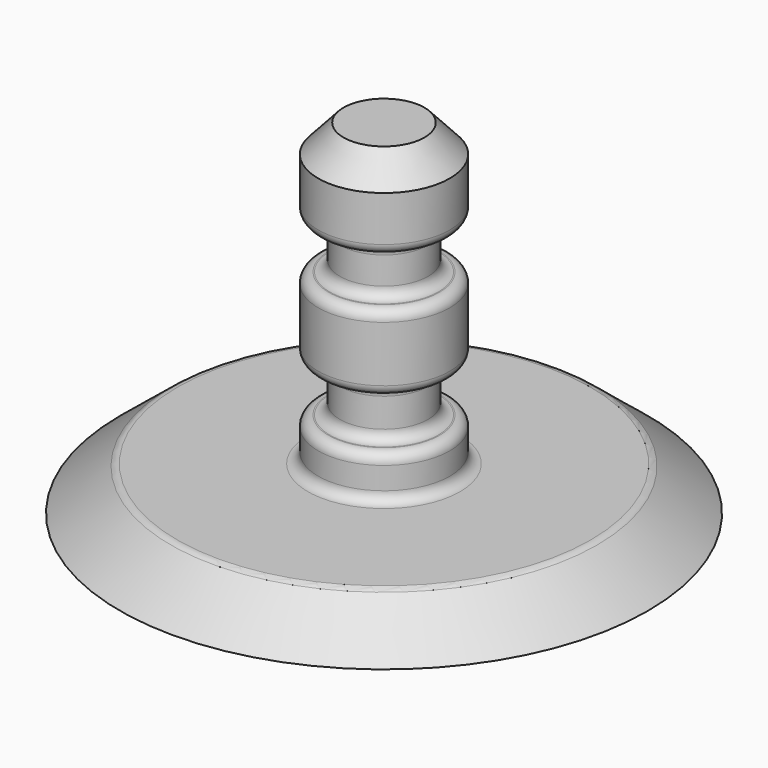
from build123d import *

# Parameters (mm, degrees)
F2_R = 1.27
F3_T = -0.8


with BuildPart() as f1:
    # F0 (on Front) → F1 (revolve)
    with BuildSketch(Plane.XZ):
        Polygon((0, 42.505313), (0, 0), (32.613974, 0), (25.991503, 5.40768), (8.126016, 5.40768), (8.126016, 10.705658), (5.441556, 10.705658), (5.441556, 16.831445), (8.126016, 16.831445), (8.126016, 26.268467), (5.441556, 26.268467), (5.441556, 32.191522), (8.126016, 32.191522), (8.126016, 39.067384), (5.000625, 42.505313), align=None)
    revolve(axis=Axis((0, 0, 21.252656), (0, 0, 1)))

    # F2
    f2_edges = [f1.edges().sort_by_distance(p)[0] for p in [
        (-8.126016, 0, 32.191522),
        (-8.126016, 0, 26.268467),
        (-5.441556, 0, 26.268467),
        (-5.441556, 0, 32.191522),
        (-5.441556, 0, 16.831445),
        (-8.126016, 0, 16.831445),
        (-5.441556, 0, 10.705658),
        (-8.126016, 0, 10.705658),
        (-8.126016, 0, 5.40768),
        (-25.991503, 0, 5.40768),
    ]]
    fillet(f2_edges, radius=F2_R)

    # F3
    f3_openings = [f1.faces().sort_by_distance(p)[0] for p in [
        (0, 0, 0),
    ]]
    offset(amount=F3_T, openings=f3_openings)


solid = f1.part
